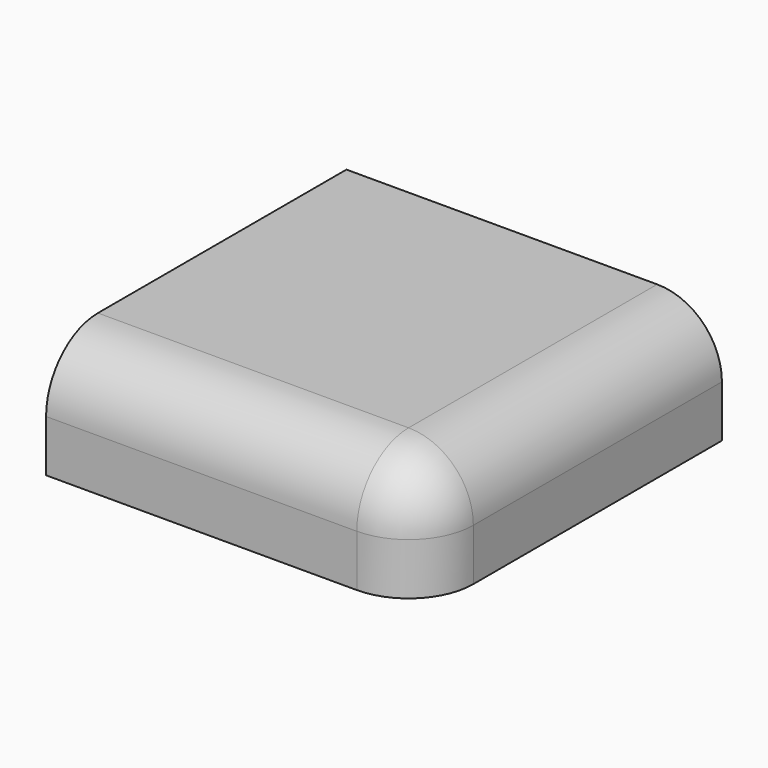
from build123d import *

# Parameters (mm, degrees)
F0_W     = 290
F0_H     = 290
F1_DEPTH = 90
F2_R     = 50


with BuildPart() as f1:
    # F0 (on Top) → F1 (new body)
    with BuildSketch(Plane.XY):
        Rectangle(F0_W, F0_H)
    extrude(amount=F1_DEPTH)

    # F2
    f2_edges = [f1.edges().sort_by_distance(p)[0] for p in [
        (0, -145, 90),
        (145, -145, 45),
        (145, 0, 90),
    ]]
    fillet(f2_edges, radius=F2_R)


solid = f1.part
